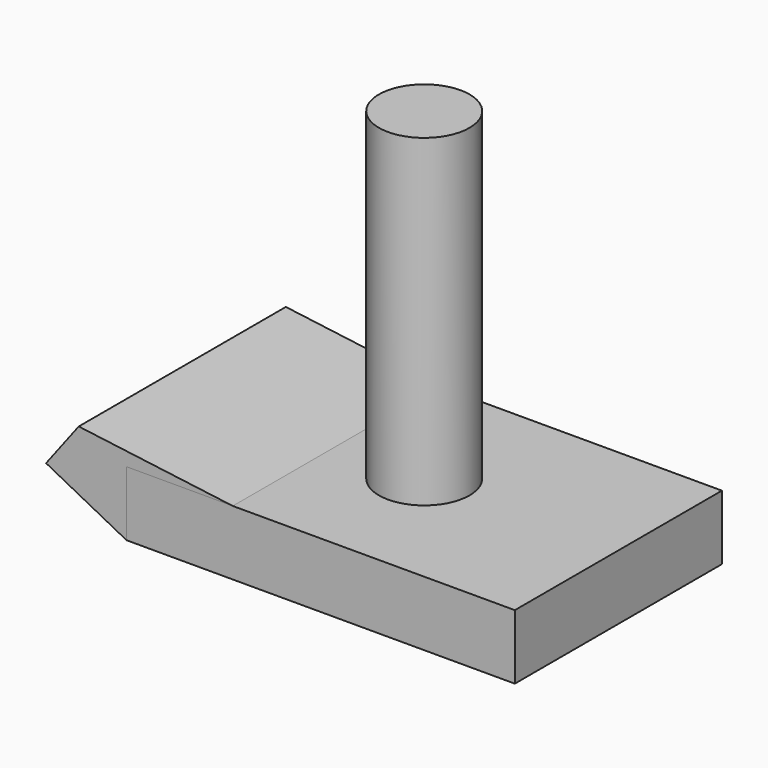
from build123d import *

# Parameters (mm, degrees)
F0_R     = 1.75
F1_DEPTH = 15
F0_W     = 15
F0_H     = 10
F2_DEPTH = 2.5
F4_DEPTH = 10


with BuildPart() as f1:
    # F0 (on Top) → F1 (new body)
    with BuildSketch(Plane.XY):
        Circle(F0_R)
    extrude(amount=F1_DEPTH)

    # F0 (on Top) → F2 (join)
    with BuildSketch(Plane.XY):
        Rectangle(F0_W, F0_H)
        Circle(F0_R, mode=Mode.SUBTRACT)
    extrude(amount=F2_DEPTH)


with BuildPart() as f4:
    # F3 (on face) → F4 (new body)
    with BuildSketch(Plane.XZ.offset(5)):
        Polygon((-10.607643, 1.610141), (-7.5, 0), (-7.5, 2.5), (-9.346238, 3.26903), align=None)
        Polygon((-9.346238, 3.26903), (-7.5, 2.5), (-3.395726, 2.5), align=None)
    extrude(amount=-F4_DEPTH)


solid = Compound([f1.part, f4.part])
